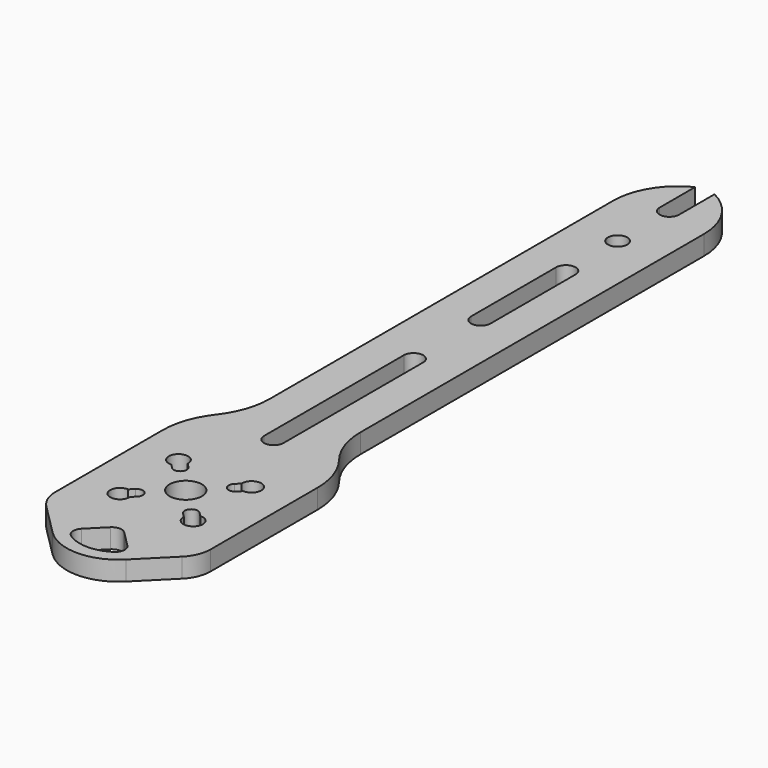
from build123d import *

# Parameters (mm, degrees)
F0_R     = 2.5
F0_R_2   = 1.5
F1_DEPTH = 3


with BuildPart() as f1:
    # F0 (on Top) → F1 (new body)
    with BuildSketch(Plane.XY):
        with BuildLine():
            ThreePointArc((1.5, 93.43), (0, 91.93), (-1.5, 93.43))
            Line((-1.5, 93.43), (-1.5, 100.281303))
            ThreePointArc((-1.5, 100.281303), (-5.514693, 96.595062), (-7, 91.351017))
            Line((-7, 91.351017), (-7, 25))
            ThreePointArc((-7, 25), (-7.642484, 21.158685), (-9.5, 17.73551))
            ThreePointArc((-9.5, 17.73551), (-11.357516, 14.312336), (-12, 10.471021))
            Line((-12, 10.471021), (-12, -10.191835))
            ThreePointArc((-12, -10.191835), (-11.610163, -12.151679), (-10.5, -13.813155))
            Line((-10.5, -13.813155), (-5.656854, -18.656301))
            ThreePointArc((-5.656854, -18.656301), (0, -20.999447), (5.656854, -18.656301))
            Line((5.656854, -18.656301), (10.5, -13.813155))
            ThreePointArc((10.5, -13.813155), (11.610163, -12.151679), (12, -10.191835))
            Line((12, -10.191835), (12, 10.471021))
            ThreePointArc((12, 10.471021), (11.357516, 14.312336), (9.5, 17.73551))
            ThreePointArc((9.5, 17.73551), (7.642484, 21.158685), (7, 25))
            Line((7, 25), (7, 91.351017))
            ThreePointArc((7, 91.351017), (5.514693, 96.595062), (1.5, 100.281303))
            Line((1.5, 100.281303), (1.5, 93.43))
        make_face()
        with BuildLine():
            ThreePointArc((-4.159178, -5.573392), (-6.717514, -6.717514), (-5.573392, -4.159178))
            Line((-5.573392, -4.159178), (-4.949747, -3.535534))
            ThreePointArc((-4.949747, -3.535534), (-3.535534, -3.535534), (-3.535534, -4.949747))
            Line((-3.535534, -4.949747), (-4.159178, -5.573392))
        make_face(mode=Mode.SUBTRACT)
        with BuildLine():
            ThreePointArc((-5.573392, 4.159178), (-6.717514, 6.717514), (-4.159178, 5.573392))
            Line((-4.159178, 5.573392), (-3.535534, 4.949747))
            ThreePointArc((-3.535534, 4.949747), (-3.535534, 3.535534), (-4.949747, 3.535534))
            Line((-4.949747, 3.535534), (-5.573392, 4.159178))
        make_face(mode=Mode.SUBTRACT)
        with BuildLine():
            ThreePointArc((-1.06066, -13.222237), (0, -12.782897), (1.06066, -13.222237))
            Line((1.06066, -13.222237), (3.535534, -15.697111))
            ThreePointArc((3.535534, -15.697111), (3.967149, -16.90981), (3.299832, -18.010546))
            ThreePointArc((3.299832, -18.010546), (0, -18.999447), (-3.299832, -18.010546))
            ThreePointArc((-3.299832, -18.010546), (-3.967149, -16.90981), (-3.535534, -15.697111))
            Line((-3.535534, -15.697111), (-1.06066, -13.222237))
        make_face(mode=Mode.SUBTRACT)
        Circle(F0_R, mode=Mode.SUBTRACT)
        with BuildLine():
            ThreePointArc((5.573392, -4.159178), (6.717514, -6.717514), (4.159178, -5.573392))
            Line((4.159178, -5.573392), (3.535534, -4.949747))
            ThreePointArc((3.535534, -4.949747), (3.535534, -3.535534), (4.949747, -3.535534))
            Line((4.949747, -3.535534), (5.573392, -4.159178))
        make_face(mode=Mode.SUBTRACT)
        with BuildLine():
            ThreePointArc((4.949747, 3.535534), (3.535534, 3.535534), (3.535534, 4.949747))
            Line((3.535534, 4.949747), (4.159178, 5.573392))
            ThreePointArc((4.159178, 5.573392), (6.717514, 6.717514), (5.573392, 4.159178))
            Line((5.573392, 4.159178), (4.949747, 3.535534))
        make_face(mode=Mode.SUBTRACT)
        with BuildLine():
            Line((-1.5, 17), (-1.5, 44))
            ThreePointArc((-1.5, 44), (0, 45.5), (1.5, 44))
            Line((1.5, 44), (1.5, 17))
            ThreePointArc((1.5, 17), (0, 15.5), (-1.5, 17))
        make_face(mode=Mode.SUBTRACT)
        with BuildLine():
            Line((-1.5, 57), (-1.5, 73.43))
            ThreePointArc((-1.5, 73.43), (0, 74.93), (1.5, 73.43))
            Line((1.5, 73.43), (1.5, 57))
            ThreePointArc((1.5, 57), (0, 55.5), (-1.5, 57))
        make_face(mode=Mode.SUBTRACT)
        with Locations((0, 83.43)):
            Circle(F0_R_2, mode=Mode.SUBTRACT)
    extrude(amount=F1_DEPTH)


solid = f1.part
